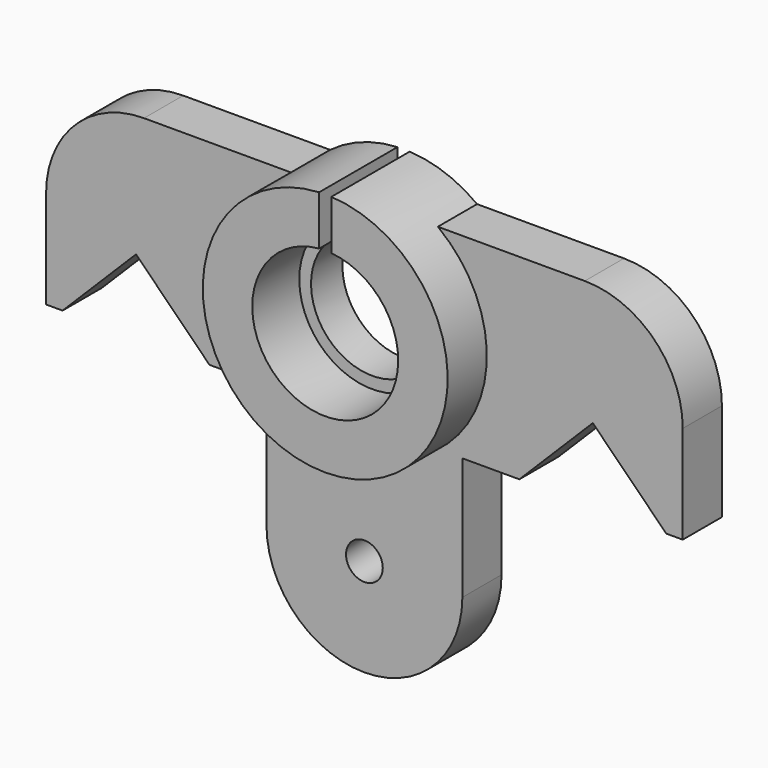
from build123d import *

# Parameters (mm, degrees)
F0_R      = 15.875
F0_R_2    = 9.4615
F1_DEPTH  = 12.7
F3_DEPTH  = 6.35
F5_DEPTH  = 6.35
F7_R      = 12.7
F8_W      = 1.5875
F8_H      = 18.0220451
F9_DEPTH  = 12.701
F11_DEPTH = 5.08


with BuildPart() as f1:
    # F0 (on Front) → F1 (new body)
    with BuildSketch(Plane.XZ):
        Circle(F0_R)
        Circle(F0_R_2, mode=Mode.SUBTRACT)
    extrude(amount=F1_DEPTH)

    # F2 (on Front) → F3 (join)
    with BuildSketch(Plane.XZ):
        with BuildLine():
            Line((12.7, -9.525), (-12.7, -9.525))
            Line((-12.7, -9.525), (-12.7, -28.575))
            Line((-12.7, -28.575), (-2.38125, -28.575))
            ThreePointArc((-2.38125, -28.575), (0, -26.19375), (2.38125, -28.575))
            Line((2.38125, -28.575), (12.7, -28.575))
            Line((12.7, -28.575), (12.7, -9.525))
        make_face()
        with BuildLine():
            Line((-2.38125, -28.575), (-12.7, -28.575))
            ThreePointArc((-12.7, -28.575), (0, -41.275), (12.7, -28.575))
            Line((12.7, -28.575), (2.38125, -28.575))
            ThreePointArc((2.38125, -28.575), (0, -30.95625), (-2.38125, -28.575))
        make_face()
    extrude(amount=F3_DEPTH)

    # F4 (on Front) → F5 (join)
    with BuildSketch(Plane.XZ):
        Polygon((41.275, 12.7), (9.525, 12.7), (9.525, -12.7), (20.088640973, -12.7), (29.613640973, -3.175), (39.138640973, -12.7), (41.275, -12.7), align=None)
    extrude(amount=F5_DEPTH)

    # F6: F1 across plane


with BuildPart() as f1_1:
    add(f1.part)
    add(f1.part.mirror(Plane.YZ))

    # F7
    f7_edges = [f1_1.edges().sort_by_distance(p)[0] for p in [
        (41.275, -3.175, 12.7),
        (-41.275, -3.175, 12.7),
    ]]
    fillet(f7_edges, radius=F7_R)

    # F8 (on Front) → F9 (cut, through all)
    with BuildSketch(Plane.XZ):
        with Locations((0, 9.5910543679)):
            Rectangle(F8_W, F8_H)
    extrude(amount=F9_DEPTH, mode=Mode.SUBTRACT)

    # F10 (on Front) → F11 (join)
    with BuildSketch(Plane.XZ):
        with BuildLine():
            Line((-0.79375, 7.897712782), (-0.79375, 9.4281463283))
            ThreePointArc((-0.79375, 9.4281463283), (0, -9.4615), (0.79375, 9.4281463283))
            Line((0.79375, 9.4281463283), (0.79375, 7.897712782))
            ThreePointArc((0.79375, 7.897712782), (0, -7.9375), (-0.79375, 7.897712782))
        make_face()
    extrude(amount=F11_DEPTH)


solid = f1_1.part
